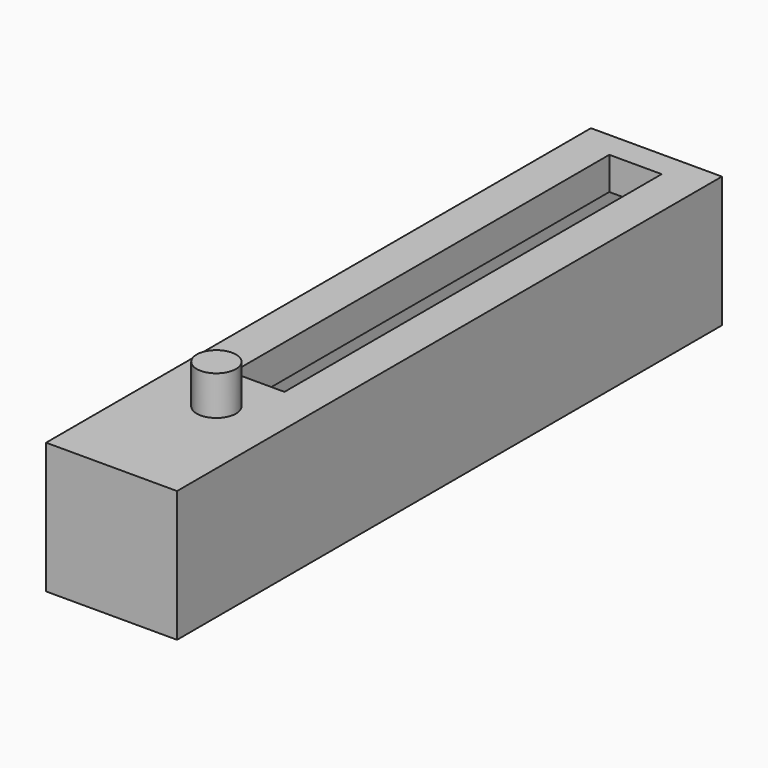
from build123d import *

# Parameters (mm, degrees)
F0_W     = 63.5
F0_H     = 330.2
F0_W_2   = 25.4
F0_H_2   = 228.6
F1_DEPTH = 31.75
F2_W     = 31.75
F2_H     = 31.75
F3_DEPTH = 241.3
F4_R     = 9.525
F5_DEPTH = 19.05


with BuildPart() as f1:
    # F0 (on Top) → F1 (new body, symmetric)
    with BuildSketch(Plane.XY):
        Rectangle(F0_W, F0_H)
        with Locations((0, 38.1)):
            Rectangle(F0_W_2, F0_H_2, mode=Mode.SUBTRACT)
    extrude(amount=F1_DEPTH, both=True)

    # F2 (on face) → F3 (cut)
    with BuildSketch(Plane(origin=(0, 165.1, 0), x_dir=(-1, 0, 0), z_dir=(0, 1, 0))):
        Rectangle(F2_W, F2_H)
    extrude(amount=-F3_DEPTH, mode=Mode.SUBTRACT)

    # F4 (on face) → F5 (join)
    with BuildSketch(Plane.XY.offset(31.75)):
        with Locations((0, -101.6)):
            Circle(F4_R)
    extrude(amount=F5_DEPTH)


solid = f1.part
